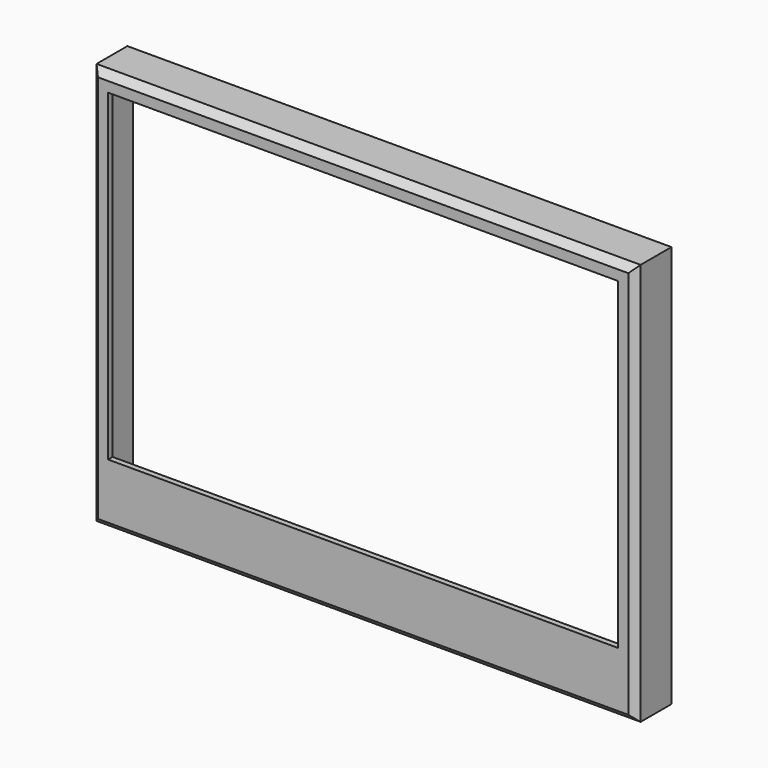
from build123d import *

# Parameters (mm, degrees)
F0_W     = 298.45
F0_H     = 25.4
F0_H_2   = 193.675
F0_W_2   = 285.75
F0_H_3   = 180.975
F1_DEPTH = 3.175
F2_W     = 304.8
F2_H     = 225.425
F2_W_2   = 298.45
F2_H_2   = 219.075
F3_DEPTH = 25.4
F4_SIZE  = 3.81


with BuildPart() as f1:
    # F0 (on Front) → F1 (new body)
    with BuildSketch(Plane.XZ):
        with Locations((0, -109.5375)):
            Rectangle(F0_W, F0_H)
        Rectangle(F0_W, F0_H_2)
        Rectangle(F0_W_2, F0_H_3, mode=Mode.SUBTRACT)
    extrude(amount=F1_DEPTH)

    # F2 (on face) → F3 (join)
    with BuildSketch(Plane.XZ.offset(3.175)):
        with Locations((0, -12.7)):
            Rectangle(F2_W, F2_H)
        with Locations((0, -12.7)):
            Rectangle(F2_W_2, F2_H_2, mode=Mode.SUBTRACT)
    extrude(amount=-F3_DEPTH)

    # F4
    f4_edges = [f1.edges().sort_by_distance(p)[0] for p in [
        (-152.4, -3.175, -12.7),
        (0, -3.175, -125.4125),
        (152.4, -3.175, -12.7),
        (0, -3.175, 100.0125),
    ]]
    chamfer(f4_edges, length=F4_SIZE)


solid = f1.part
